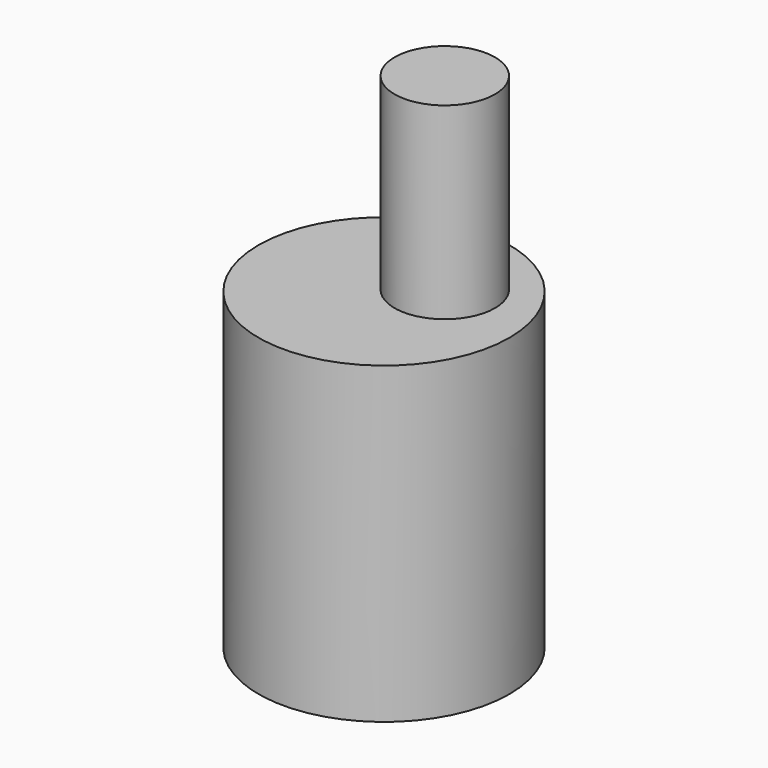
from build123d import *

# Parameters (mm, degrees)
F0_R     = 10
F1_DEPTH = 12.5
F2_R     = 4
F3_DEPTH = 15


with BuildPart() as f1:
    # F0 (on Top) → F1 (new body, symmetric)
    with BuildSketch(Plane.XY):
        Circle(F0_R)
    extrude(amount=F1_DEPTH, both=True)

    # F2 (on face) → F3 (join)
    with BuildSketch(Plane.XY.offset(12.5)):
        with Locations((2.7976846322, 2.55677104)):
            Circle(F2_R)
    extrude(amount=F3_DEPTH)


solid = f1.part
